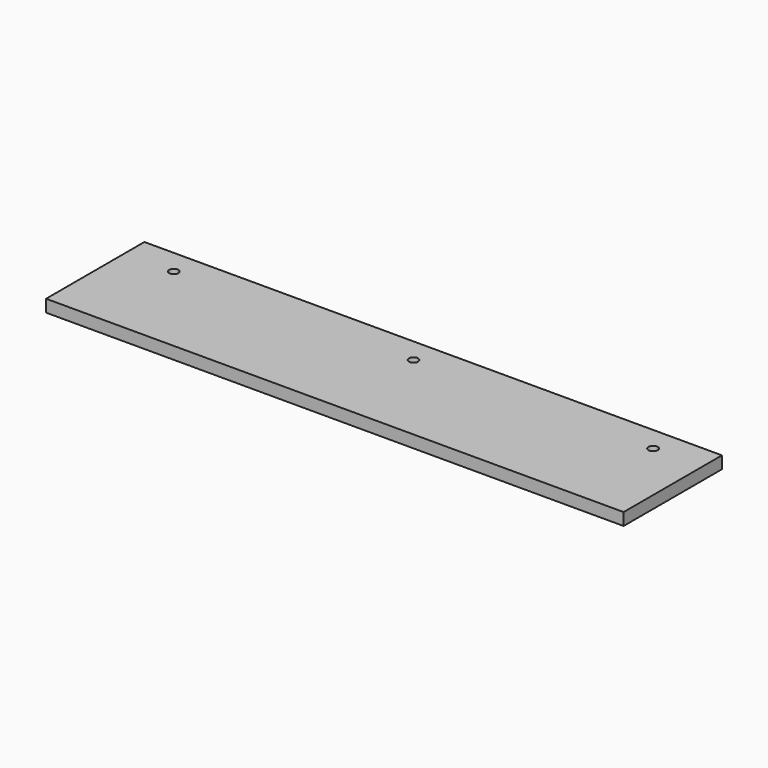
from build123d import *

# Parameters (mm, degrees)
F0_W     = 298.45
F0_H     = 63.5
F1_DEPTH = 6.35
F2_R     = 2.38125
F3_DEPTH = 6.351


with BuildPart() as f1:
    # F0 (on Top) → F1 (new body)
    with BuildSketch(Plane.XY):
        with Locations((149.225, 31.75)):
            Rectangle(F0_W, F0_H)
    extrude(amount=F1_DEPTH)

    # F2 (on face) → F3 (cut, through all)
    with BuildSketch(Plane.XY.offset(6.35)):
        with Locations((25.4, 50.8)):
            Circle(F2_R)
        with Locations((149.225, 50.8)):
            Circle(F2_R)
        with Locations((273.05, 50.8)):
            Circle(F2_R)
    extrude(amount=-F3_DEPTH, mode=Mode.SUBTRACT)


solid = f1.part
